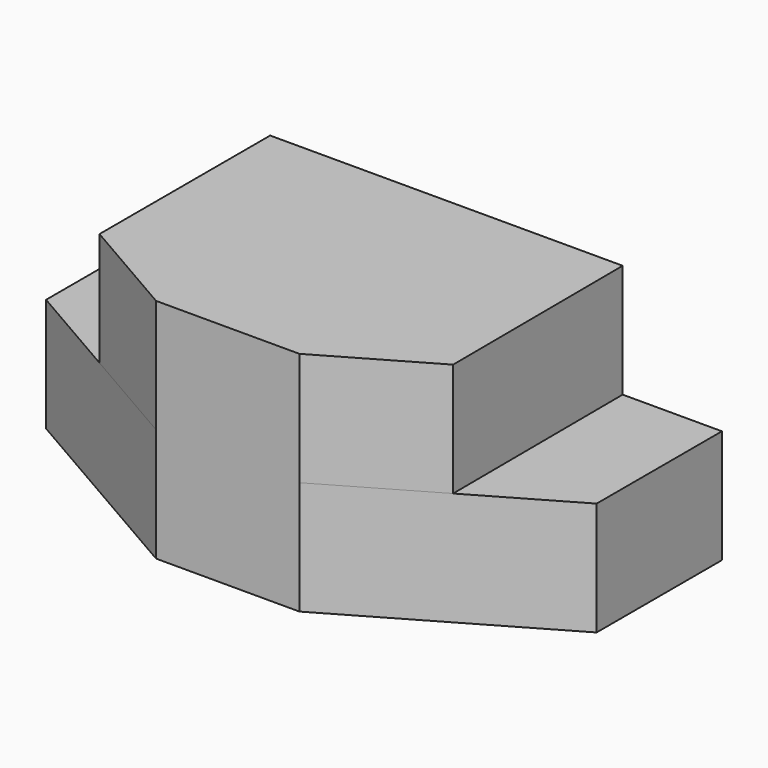
from build123d import *

# Parameters (mm, degrees)
F1_DEPTH = 25.4
F3_DEPTH = 25.4


with BuildPart() as f1:
    # F0 (on Top) → F1 (new body)
    with BuildSketch(Plane.XY):
        Polygon((22.881487, 0), (0, 0), (0, -34.925), (45.762975, -61.346266), (77.856142, -61.346266), (123.369409, -35.069169), (123.369409, 0), (100.435721, 0), (76.2, 0), (45.762975, 0), align=None)
    extrude(amount=F1_DEPTH)

    # F2 (on face) → F3 (join)
    with BuildSketch(Plane.XY.offset(25.4)):
        Polygon((101.144409, 0), (22.225, 0), (22.225, -47.75661), (45.762975, -61.346266), (77.856142, -61.346266), (101.394116, -47.75661), align=None)
    extrude(amount=F3_DEPTH)


solid = f1.part
